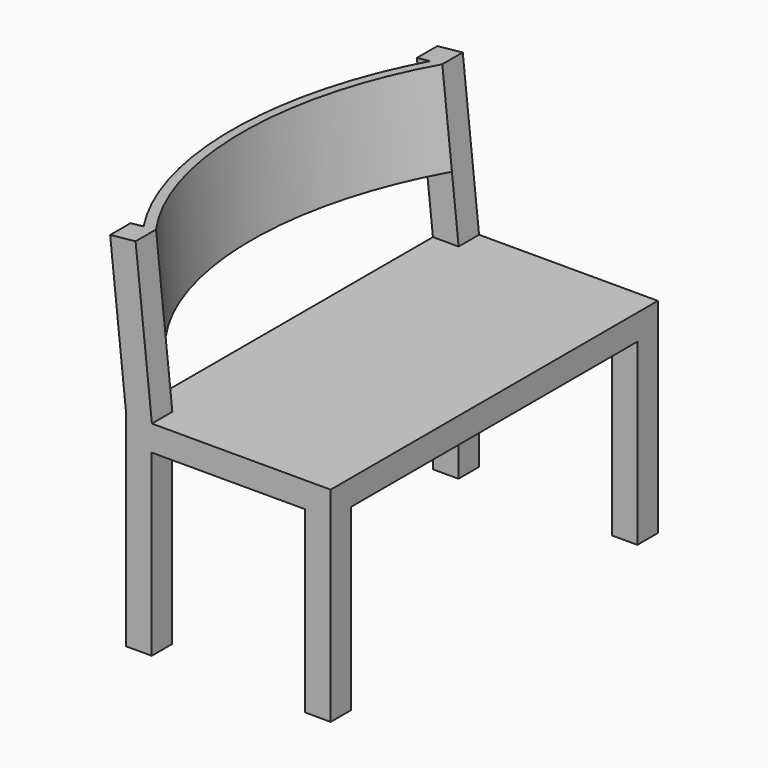
from build123d import *

# Parameters (mm, degrees)
F0_W       = 400
F0_H       = 800
F1_DEPTH   = 400
F2_W       = 300
F2_H       = 350
F3_DEPTH   = 800.001
F4_W       = 700
F4_H       = 350
F5_DEPTH   = 400.001
F10_W      = 800
F10_H      = 300
F11_DEPTH  = 50
F12_W      = 700
F12_H      = 300
F13_DEPTH  = 429.5428217516
F13_FACE_W = 50
F13_FACE_H = 50
F18_DEPTH  = 180


with BuildPart() as f1:
    # F0 (on Top) → F1 (new body)
    with BuildSketch(Plane.XY):
        Rectangle(F0_W, F0_H)
    extrude(amount=F1_DEPTH)

    # F2 (on face) → F3 (cut, through all)
    with BuildSketch(Plane.XZ.offset(400)):
        with Locations((0, 175)):
            Rectangle(F2_W, F2_H)
    extrude(amount=-F3_DEPTH, mode=Mode.SUBTRACT)

    # F4 (on face) → F5 (cut, through all)
    with BuildSketch(Plane.YZ.offset(200)):
        with Locations((0, 175)):
            Rectangle(F4_W, F4_H)
    extrude(amount=-F5_DEPTH, mode=Mode.SUBTRACT)

    # F10 (on face) → F11 (join)
    with BuildSketch(Plane(origin=(-156.2324219098, 0, -16.4206892285), x_dir=(0, 1, 0), z_dir=(0.9945218954, 0, 0.1045284633))):
        with Locations((0, 568.7144508008)):
            Rectangle(F10_W, F10_H)
    extrude(amount=F11_DEPTH)

    # F12 (on face) → F13 (cut, through all)
    with BuildSketch(Plane(origin=(-156.2324219098, 0, -16.4206892285), x_dir=(0, -1, 0), z_dir=(-0.9945218954, 0, -0.1045284633))):
        with Locations((0, 568.7144508008)):
            Rectangle(F12_W, F12_H)
    extrude(amount=-F13_DEPTH, mode=Mode.SUBTRACT)

    # F13_face (on face) → F14 (join, up to the next surface of F1)
    with BuildSketch(Plane(origin=(-175.1369526158, -375, 402.6132115817), x_dir=(1, 0, 0), z_dir=(0.1045284633, 0, -0.9945218954))):
        Rectangle(F13_FACE_W, F13_FACE_H)
    extrude(until=Until.NEXT)

    # F13_face (on face) → F15 (join, up to the next surface of F1)
    with BuildSketch(Plane(origin=(-175.1369526158, -375, 402.6132115817), x_dir=(1, 0, 0), z_dir=(0.1045284633, 0, -0.9945218954))):
        with Locations((0, -750)):
            Rectangle(F13_FACE_W, F13_FACE_H)
    extrude(until=Until.NEXT)

    # F17 (on plane+point) → F18 (join)
    with BuildSketch(Plane(origin=(-75.1261170705, 0, 714.777257839), x_dir=(0.9945218954, 0, 0.1045284633), z_dir=(-0.1045284633, 0, 0.9945218954))):
        with BuildLine():
            ThreePointArc((-107.0929937666, -350), (-219.7532765261, 0), (-107.0929937666, 350))
            Line((-107.0929937666, 350), (-123.3376510079, 361.6666666667))
            ThreePointArc((-123.3376510079, 361.6666666667), (-239.7532765261, 0), (-123.3376510079, -361.6666666667))
            Line((-123.3376510079, -361.6666666667), (-107.0929937666, -350))
        make_face()
    extrude(amount=-F18_DEPTH)


solid = f1.part
